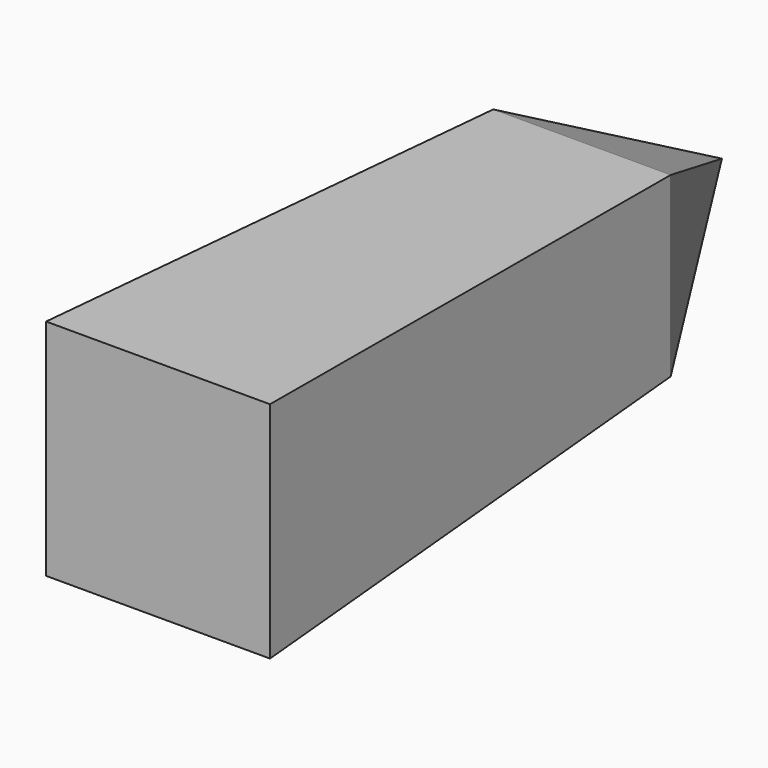
from build123d import *

# Parameters (mm, degrees)
F2_W      = 64.1096
F2_H      = 64.1096
F0_W      = 50.8
F0_H      = 50.8
F3_FACE_W = 50.8
F3_FACE_H = 50.8


with BuildPart() as f3:
    # F2 (on offset) → F3 section 0
    with BuildSketch(Plane.XZ.offset(152.4)):
        with Locations((-9.6126204171, 8.6764315329)):
            Rectangle(F2_W, F2_H)
    # F0 (on Front) → F3 section 1
    with BuildSketch(Plane.XZ):
        with Locations((-10.1696318015, 8.8224951074)):
            Rectangle(F0_W, F0_H)
    loft()

    # F3_face (on face) → F6 section 0
    with BuildSketch(Plane(origin=(-10.1696318015, 0, 8.8224951074), x_dir=(-1, 0, 0), z_dir=(0, 1, 0)), mode=Mode.PRIVATE) as f6_s0:
        Rectangle(F3_FACE_W, F3_FACE_H)
    loft([Vertex(-10.7320928946, 50.8, 9.2443386093), f6_s0.sketch])


solid = f3.part
